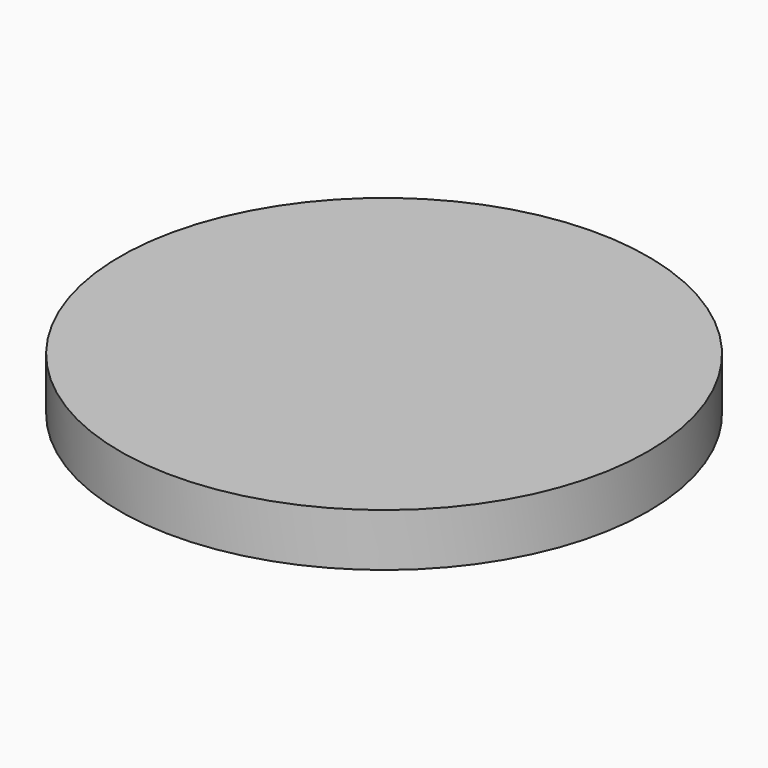
from build123d import *

# Parameters (mm, degrees)
F1_START = 5
F0_R     = 5
F1_DEPTH = 1


with BuildPart() as f1:
    # F0 (on Top) → F1 (new body)
    with BuildSketch(Plane.XY.offset(F1_START)):
        Circle(F0_R)
    extrude(amount=F1_DEPTH)


solid = f1.part
